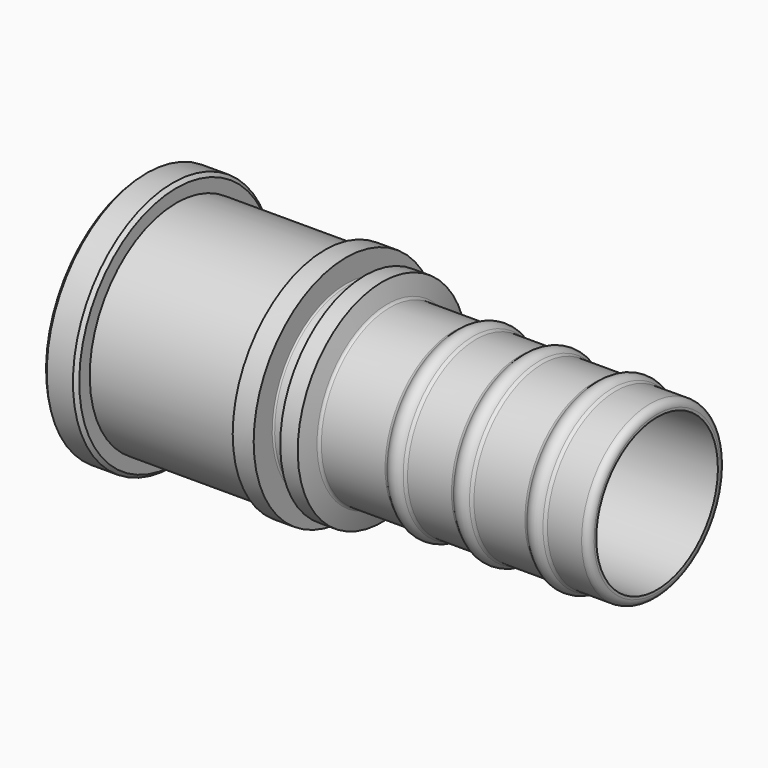
from build123d import *

# Parameters (mm, degrees)
F2_R    = 1.2
F3_R    = 2
F4_R    = 0.8
F5_R    = 0.4
F6_R    = 0.5
F7_R    = 0.8
F8_SIZE = 1


with BuildPart() as f1:
    # F0 (on Front) → F1 (revolve)
    with BuildSketch(Plane.XZ):
        with BuildLine():
            Line((49, 21.75), (147, 21.75))
            Line((147, 21.75), (147, 24.5))
            Line((147, 24.5), (134.598076, 24.5))
            ThreePointArc((134.598076, 24.5), (132, 26), (129.401924, 24.5))
            Line((129.401924, 24.5), (113.598076, 24.5))
            ThreePointArc((113.598076, 24.5), (111, 26), (108.401924, 24.5))
            Line((108.401924, 24.5), (94.598076, 24.5))
            ThreePointArc((94.598076, 24.5), (92, 26), (89.401924, 24.5))
            Line((89.401924, 24.5), (69.940708, 24.5))
            Line((69.940708, 24.5), (68.4, 30.25))
            Line((68.4, 30.25), (63.4, 30.25))
            Line((63.4, 30.25), (63.4, 26))
            Line((63.4, 26), (58, 26))
            Line((58, 26), (58, 33))
            Line((58, 33), (52, 33))
            Line((52, 33), (52, 31))
            Line((52, 31), (9.5, 31))
            Line((9.5, 31), (9.5, 35.75))
            Line((9.5, 35.75), (0, 35.75))
            Line((0, 35.75), (0, 31.625))
            Line((0, 31.625), (2.8, 31.625))
            Line((2.8, 31.625), (2.8, 27.425))
            Line((2.8, 27.425), (0, 27.425))
            Line((0, 27.425), (0, 25.75))
            Line((0, 25.75), (6.928203, 21.75))
            Line((6.928203, 21.75), (21, 21.75))
            Line((21, 21.75), (21, 23.75))
            Line((21, 23.75), (49, 23.75))
            Line((49, 23.75), (49, 21.75))
        make_face()
    revolve(axis=Axis((44.485599, 0, 0), (1, 0, 0)))

    # F2
    f2_edges = [f1.edges().sort_by_distance(p)[0] for p in [
        (134.598076, 0, -24.5),
        (113.598076, 0, -24.5),
        (94.598076, 0, -24.5),
        (89.401924, 0, -24.5),
        (108.401924, 0, -24.5),
        (129.401924, 0, -24.5),
    ]]
    fillet(f2_edges, radius=F2_R)

    # F3
    f3_edges = [f1.edges().sort_by_distance(p)[0] for p in [
        (147, 0, -24.5),
    ]]
    fillet(f3_edges, radius=F3_R)

    # F4
    f4_edges = [f1.edges().sort_by_distance(p)[0] for p in [
        (69.940708, 0, -24.5),
    ]]
    fillet(f4_edges, radius=F4_R)

    # F5
    f5_edges = [f1.edges().sort_by_distance(p)[0] for p in [
        (58, 0, -26),
        (63.4, 0, -26),
    ]]
    fillet(f5_edges, radius=F5_R)

    # F6
    f6_edges = [f1.edges().sort_by_distance(p)[0] for p in [
        (49, 0, -23.75),
    ]]
    fillet(f6_edges, radius=F6_R)

    # F7
    f7_edges = [f1.edges().sort_by_distance(p)[0] for p in [
        (2.8, 0, -31.625),
        (2.8, 0, -27.425),
    ]]
    fillet(f7_edges, radius=F7_R)

    # F8
    f8_edges = [f1.edges().sort_by_distance(p)[0] for p in [
        (9.5, 0, -35.75),
        (0, 0, -35.75),
    ]]
    chamfer(f8_edges, length=F8_SIZE)


solid = f1.part
